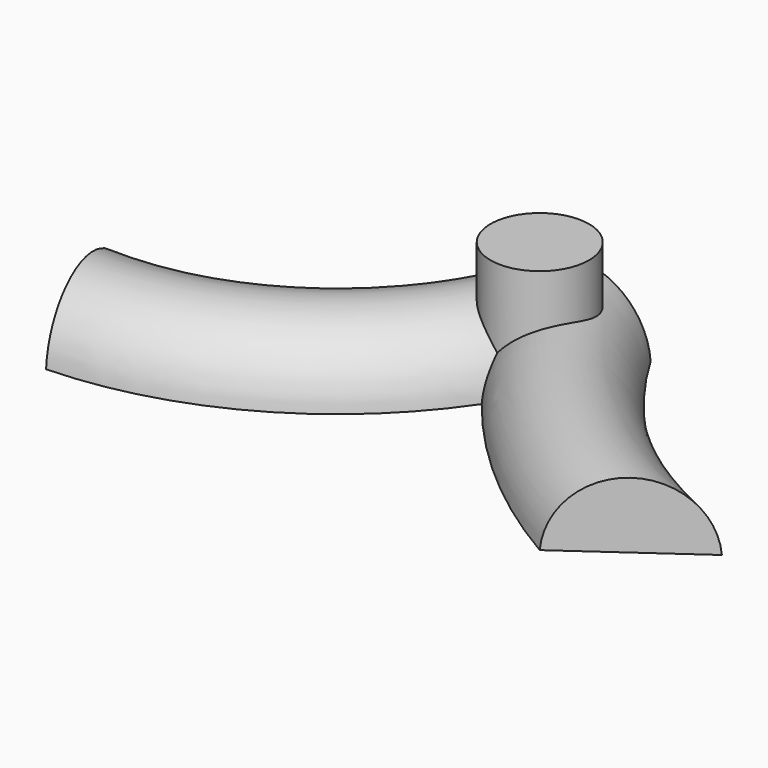
from build123d import *

# Parameters (mm, degrees)
F3_R     = 16.369922
F6_DEPTH = 38.1


with BuildPart() as f4:
    # F4: sweep along a path in F1
    with BuildLine(Plane.XY) as f4_path:
        ThreePointArc((-101.977497, -79.364158), (-37.087078, -57.544772), (0, 0))
    # F0 (on Front) → F4 (sweep)
    with BuildSketch(Plane.XZ):
        with BuildLine():
            Line((-24.570266, 0), (22.830788, 0))
            ThreePointArc((22.830788, 0), (-0.869739, 21.907398), (-24.570266, 0))
        make_face()
    sweep(path=f4_path.line)

    # F5: sweep along a path in F2
    with BuildLine(Plane.XY) as f5_path:
        ThreePointArc((0, 0), (36.635554, -50.121424), (86.756974, -86.756982))
    # F4_face (on face) → F5 (sweep)
    with BuildSketch(Plane(origin=(-0.869739, 0, 9.239337), x_dir=(-1, 0, 0), z_dir=(0, 1, 0))):
        with BuildLine():
            Line((-23.700527, -9.239337), (23.700527, -9.239337))
            ThreePointArc((23.700527, -9.239337), (0, 12.668062), (-23.700527, -9.239337))
        make_face()
    sweep(path=f5_path.line)

    # F3 (on Top) → F6 (join)
    with BuildSketch(Plane.XY):
        with Locations((4.219996, -22.83079)):
            Circle(F3_R)
    extrude(amount=F6_DEPTH)


solid = f4.part
